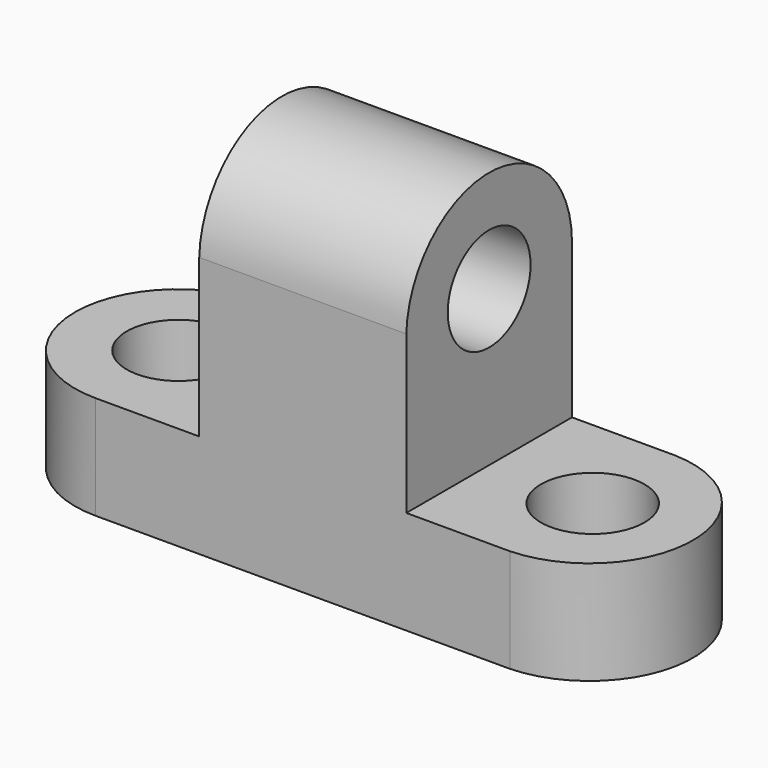
from build123d import *

# Parameters (mm, degrees)
F0_W      = 76.2
F0_H      = 44.45
F1_DEPTH  = 25.4
F2_W      = 25.4
F2_H      = 31.75
F3_DEPTH  = 25.4
F4_R      = 6.35
F5_DEPTH  = 25.4
F6_R      = 6.35
F7_DEPTH  = 25.4
F9_DEPTH  = 25.4
F11_DEPTH = 25.4
F13_DEPTH = 25.4


with BuildPart() as f1:
    # F0 (on Front) → F1 (new body)
    with BuildSketch(Plane.XZ):
        with Locations((38.1, 22.225)):
            Rectangle(F0_W, F0_H)
    extrude(amount=F1_DEPTH)

    # F2 (on face) → F3 (cut)
    with BuildSketch(Plane.XZ.offset(25.4)):
        with Locations((12.7, 28.575)):
            Rectangle(F2_W, F2_H)
        with Locations((63.5, 28.575)):
            Rectangle(F2_W, F2_H)
    extrude(amount=-F3_DEPTH, mode=Mode.SUBTRACT)

    # F4 (on face) → F5 (cut)
    with BuildSketch(Plane.YZ.offset(50.8)):
        with Locations((-12.7, 31.75)):
            Circle(F4_R)
    extrude(amount=-F5_DEPTH, mode=Mode.SUBTRACT)

    # F6 (on face) → F7 (cut)
    with BuildSketch(Plane.XY.offset(12.7)):
        with Locations((12.7, -12.7)):
            Circle(F6_R)
        with Locations((63.5, -12.7)):
            Circle(F6_R)
    extrude(amount=-F7_DEPTH, mode=Mode.SUBTRACT)

    # F8 (on face) → F9 (cut)
    with BuildSketch(Plane.XY.offset(12.7)):
        with BuildLine():
            ThreePointArc((0, -12.7), (3.7197438789, -3.7197438789), (12.7, 0))
            Line((12.7, 0), (0, 0))
            Line((0, 0), (0, -12.7))
        make_face()
        with BuildLine():
            ThreePointArc((12.7, -25.4), (3.7197438789, -21.6802561211), (0, -12.7))
            Line((0, -12.7), (0, -25.4))
            Line((0, -25.4), (12.7, -25.4))
        make_face()
    extrude(amount=-F9_DEPTH, mode=Mode.SUBTRACT)

    # F10 (on face) → F11 (cut)
    with BuildSketch(Plane.XY.offset(12.7)):
        with BuildLine():
            ThreePointArc((63.5, 0), (75.7852064607, -12.7), (63.5, -25.4))
            Line((63.5, -25.4), (76.2, -25.4))
            Line((76.2, -25.4), (76.2, 0))
            Line((76.2, 0), (63.5, 0))
        make_face()
    extrude(amount=-F11_DEPTH, mode=Mode.SUBTRACT)

    # F12 (on face) → F13 (cut)
    with BuildSketch(Plane(origin=(25.4, 0, 0), x_dir=(0, -1, 0), z_dir=(-1, 0, 0))):
        with BuildLine():
            ThreePointArc((0, 31.7254364491), (12.5488484963, 44.2842424577), (25.4, 32.0349521935))
            Line((25.4, 32.0349521935), (25.4, 44.45))
            Line((25.4, 44.45), (0, 44.45))
            Line((0, 44.45), (0, 31.7254364491))
        make_face()
    extrude(amount=-F13_DEPTH, mode=Mode.SUBTRACT)


solid = f1.part
